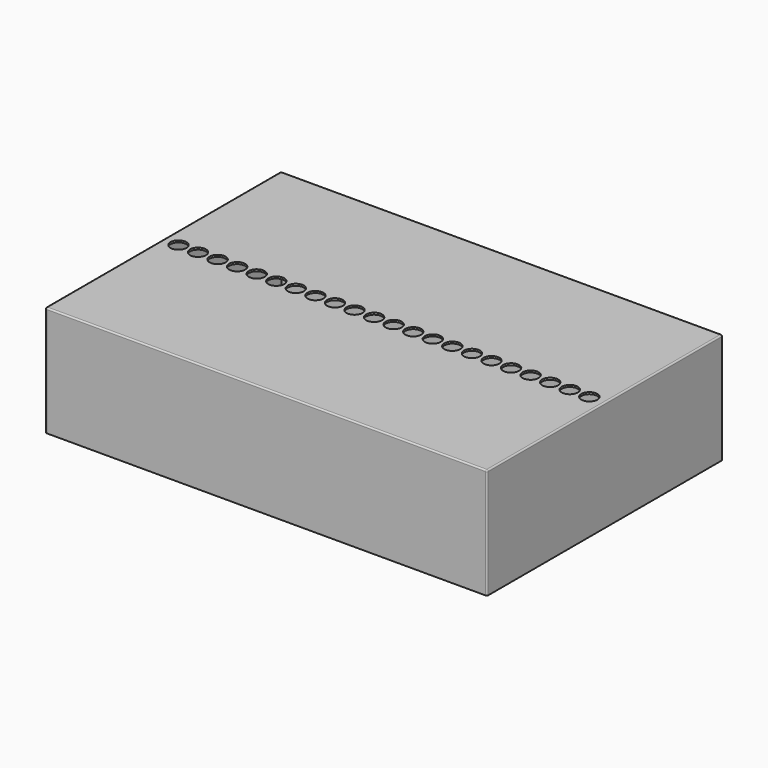
from build123d import *

# Parameters (mm, degrees)
F0_W     = 304.8
F0_H     = 203.2
F1_DEPTH = 76.2
F2_R     = 1
F3_T     = -1.3
F4_R     = 5.5
F5_DEPTH = 76.201


with BuildPart() as f1:
    # F0 (on Top) → F1 (new body)
    with BuildSketch(Plane.XY):
        Rectangle(F0_W, F0_H)
    extrude(amount=F1_DEPTH)

    # F2
    f2_edges = [f1.edges().sort_by_distance(p)[0] for p in [
        (0, -101.6, 76.2),
        (-152.4, -101.6, 38.1),
        (-152.4, 0, 76.2),
        (152.4, 0, 76.2),
        (0, 101.6, 76.2),
        (152.4, 101.6, 38.1),
        (152.4, -101.6, 38.1),
        (-152.4, 101.6, 38.1),
    ]]
    fillet(f2_edges, radius=F2_R)

    # F3
    f3_openings = [f1.faces().sort_by_distance(p)[0] for p in [
        (0, 0, 0),
    ]]
    offset(amount=F3_T, openings=f3_openings)

    # F4 (on face) → F5 (cut, through all)
    with BuildSketch(Plane.XY.offset(76.2)):
        with Locations((-141.821339, 0)):
            Circle(F4_R)
        with Locations((-128.321339, 0)):
            Circle(F4_R)
        with Locations((-114.821339, 0)):
            Circle(F4_R)
        with Locations((-101.321339, 0)):
            Circle(F4_R)
        with Locations((-87.821339, 0)):
            Circle(F4_R)
        with Locations((-74.321339, 0)):
            Circle(F4_R)
        with Locations((-60.821339, 0)):
            Circle(F4_R)
        with Locations((-47.321339, 0)):
            Circle(F4_R)
        with Locations((-33.821339, 0)):
            Circle(F4_R)
        with Locations((-20.321339, 0)):
            Circle(F4_R)
        with Locations((-6.821339, 0)):
            Circle(F4_R)
        with Locations((6.678661, 0)):
            Circle(F4_R)
        with Locations((20.178661, 0)):
            Circle(F4_R)
        with Locations((33.678661, 0)):
            Circle(F4_R)
        with Locations((47.178661, 0)):
            Circle(F4_R)
        with Locations((60.678661, 0)):
            Circle(F4_R)
        with Locations((74.178661, 0)):
            Circle(F4_R)
        with Locations((87.678661, 0)):
            Circle(F4_R)
        with Locations((101.178661, 0)):
            Circle(F4_R)
        with Locations((114.678661, 0)):
            Circle(F4_R)
        with Locations((128.178661, 0)):
            Circle(F4_R)
        with Locations((141.678661, 0)):
            Circle(F4_R)
    extrude(amount=-F5_DEPTH, mode=Mode.SUBTRACT)


solid = f1.part
